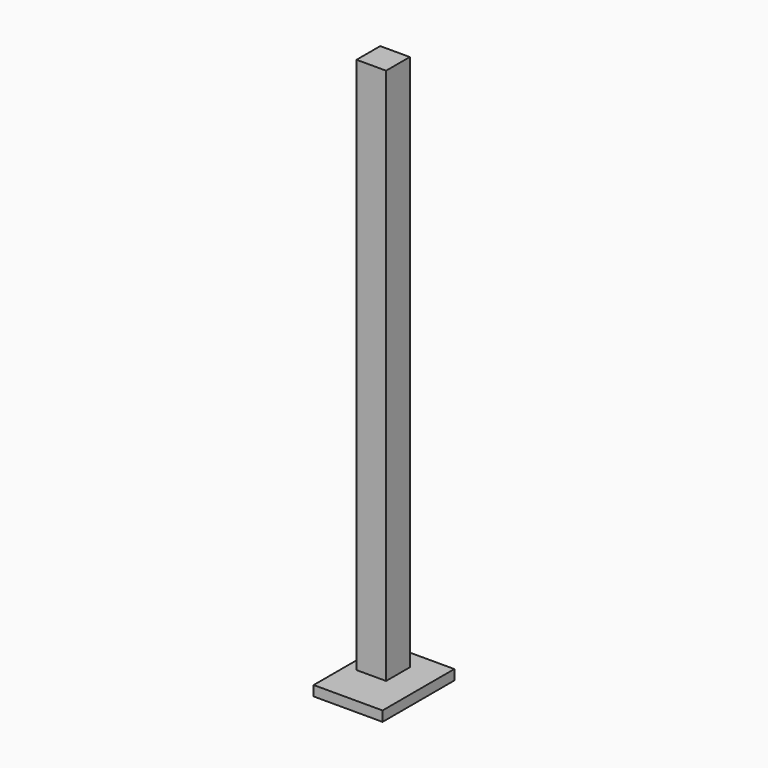
from build123d import *

# Parameters (mm, degrees)
F0_W     = 8.3719938993
F0_H     = 152.0913392305
F1_DEPTH = 8.382
F2_W     = 19.4995626807
F2_H     = 2.8535947204
F3_DEPTH = 25.4


with BuildPart() as f1:
    # F0 (on Front) → F1 (new body)
    with BuildSketch(Plane.XZ):
        with Locations((72.1271187067, -0.0059828162)):
            Rectangle(F0_W, F0_H)
    extrude(amount=F1_DEPTH)


with BuildPart() as f3:
    # F2 (on Front) → F3 (new body)
    with BuildSketch(Plane.XZ):
        with Locations((72.4682174623, -79.3953351676)):
            Rectangle(F2_W, F2_H)
    extrude(amount=F3_DEPTH)


with BuildPart() as f3_1:
    # F4: moved
    add(f3.part.moved(Location((0, 8.382, 0))))


solid = Compound([f1.part, f3_1.part])
